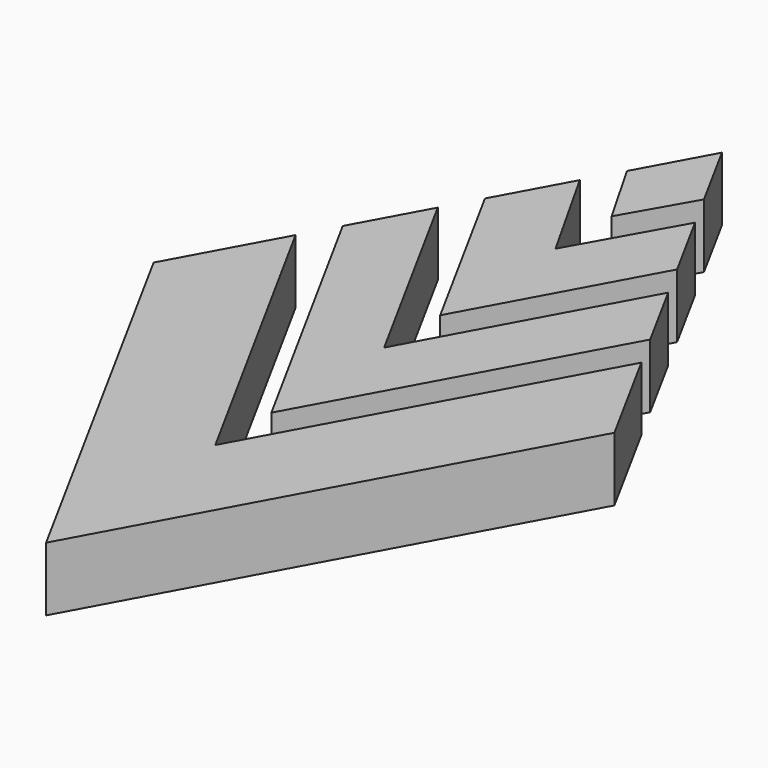
from build123d import *

# Parameters (mm, degrees)
F1_DEPTH = 3.175


with BuildPart() as f1:
    # F0 (on Top) → F1 (new body)
    with BuildSketch(Plane.XY):
        Polygon((1.909567, 38.409128), (0, 41.91), (-1.909567, 38.409128), (0, 35.06803), align=None)
        Polygon((-8.574805, 26.189524), (-11.43, 20.955), (0, 0), (11.43, 20.955), (8.567943, 26.202105), (0, 10.494211), align=None)
        Polygon((-2.858268, 36.669841), (-4.766298, 33.171787), (0.001537, 24.437617), (4.766298, 33.171787), (2.858268, 36.669841), (0, 31.58823), align=None)
        Polygon((-5.715, 31.4325), (-7.626103, 27.928811), (0, 13.97), (7.626103, 27.928811), (5.712757, 31.436612), (0, 20.963224), align=None)
    extrude(amount=F1_DEPTH)


solid = f1.part
